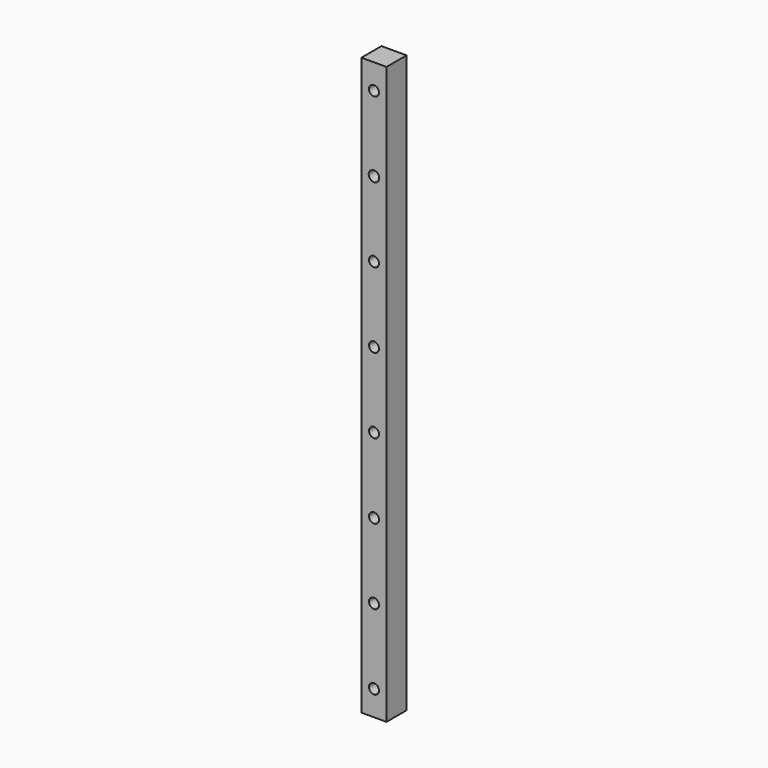
from build123d import *

# Parameters (mm, degrees)
F0_W     = 50
F0_H     = 50
F1_DEPTH = 575
F2_R     = 10
F3_DEPTH = 50


with BuildPart() as f1:
    # F0 (on Top) → F1 (new body, symmetric)
    with BuildSketch(Plane.XY):
        Rectangle(F0_W, F0_H)
    extrude(amount=F1_DEPTH, both=True)

    # F2 (on face) → F3 (cut)
    with BuildSketch(Plane(origin=(0, 25, 0), x_dir=(-1, 0, 0), z_dir=(0, 1, 0))):
        with BuildLine():
            Line((0, 525), (10, 525))
            ThreePointArc((10, 525), (-7.071068, 532.071068), (0, 515))
            Line((0, 515), (0, 525))
        make_face()
        with BuildLine():
            ThreePointArc((10, -525), (7.071068, -517.928932), (0, -515))
            Line((0, -515), (0, -535))
            ThreePointArc((0, -535), (7.071068, -532.071068), (10, -525))
        make_face()
        with BuildLine():
            Line((0, -535), (0, -515))
            ThreePointArc((0, -515), (-10, -525), (0, -535))
        make_face()
        with BuildLine():
            ThreePointArc((10, -375), (7.071068, -367.928932), (0, -365))
            Line((0, -365), (0, -385))
            ThreePointArc((0, -385), (7.071068, -382.071068), (10, -375))
        make_face()
        with BuildLine():
            Line((0, -385), (0, -365))
            ThreePointArc((0, -365), (-10, -375), (0, -385))
        make_face()
        with BuildLine():
            ThreePointArc((10, -225), (7.071068, -217.928932), (0, -215))
            Line((0, -215), (0, -235))
            ThreePointArc((0, -235), (7.071068, -232.071068), (10, -225))
        make_face()
        with BuildLine():
            Line((0, -235), (0, -215))
            ThreePointArc((0, -215), (-10, -225), (0, -235))
        make_face()
        with BuildLine():
            ThreePointArc((10, -75), (7.071068, -67.928932), (0, -65))
            Line((0, -65), (0, -85))
            ThreePointArc((0, -85), (7.071068, -82.071068), (10, -75))
        make_face()
        with BuildLine():
            Line((0, -85), (0, -65))
            ThreePointArc((0, -65), (-10, -75), (0, -85))
        make_face()
        with BuildLine():
            ThreePointArc((10, 75), (7.071068, 82.071068), (0, 85))
            Line((0, 85), (0, 65))
            ThreePointArc((0, 65), (7.071068, 67.928932), (10, 75))
        make_face()
        with BuildLine():
            Line((0, 65), (0, 85))
            ThreePointArc((0, 85), (-10, 75), (0, 65))
        make_face()
        with BuildLine():
            ThreePointArc((10, 225), (7.071068, 232.071068), (0, 235))
            Line((0, 235), (0, 215))
            ThreePointArc((0, 215), (7.071068, 217.928932), (10, 225))
        make_face()
        with BuildLine():
            Line((0, 215), (0, 235))
            ThreePointArc((0, 235), (-10, 225), (0, 215))
        make_face()
        with BuildLine():
            ThreePointArc((10.502133, 375), (7.426129, 382.426129), (0, 385.502133))
            Line((0, 385.502133), (0, 364.497867))
            ThreePointArc((0, 364.497867), (7.426129, 367.573871), (10.502133, 375))
        make_face()
        with BuildLine():
            Line((0, 364.497867), (0, 385.502133))
            ThreePointArc((0, 385.502133), (-10.502133, 375), (0, 364.497867))
        make_face()
        with BuildLine():
            ThreePointArc((0, 515), (7.071068, 517.928932), (10, 525))
            Line((10, 525), (0, 525))
            Line((0, 525), (0, 515))
        make_face()
        with Locations((0, -675)):
            Circle(F2_R)
        with Locations((0, -825)):
            Circle(F2_R)
        with Locations((0, -975)):
            Circle(F2_R)
        with Locations((0, -1125)):
            Circle(F2_R)
        with Locations((0, -1275)):
            Circle(F2_R)
        with Locations((0, -1425)):
            Circle(F2_R)
    extrude(amount=-F3_DEPTH, mode=Mode.SUBTRACT)


solid = f1.part
